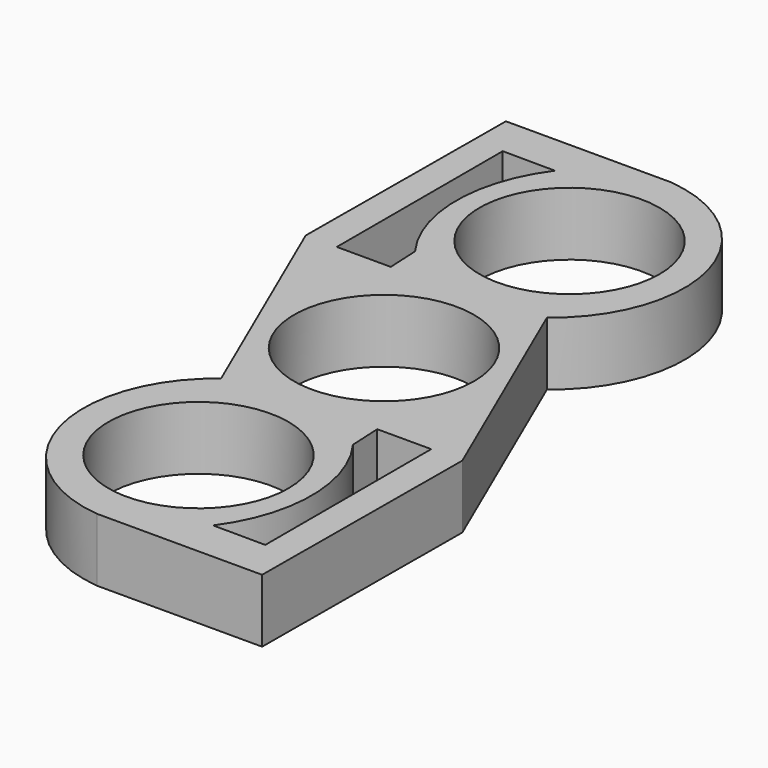
from build123d import *

# Parameters (mm, degrees)
F0_R     = 11.0109
F1_DEPTH = 7.747


with BuildPart() as f1:
    # F0 (on Top) → F1 (new body)
    with BuildSketch(Plane.XY):
        with BuildLine():
            Line((20.392826, -13.514568), (8.224028, 14.635976))
            ThreePointArc((8.224028, 14.635976), (14.048919, 32.063751), (0, 43.907929))
            Line((0, 43.907929), (-20.211583, 43.907929))
            Line((-20.211583, 43.907929), (-20.392826, 13.514568))
            Line((-20.392826, 13.514568), (-8.224028, -14.635976))
            ThreePointArc((-8.224028, -14.635976), (-14.048919, -32.063751), (0, -43.907929))
            Line((0, -43.907929), (20.211583, -43.907929))
            Line((20.211583, -43.907929), (20.392826, -13.514568))
        make_face()
        with Locations((0, -28.3718)):
            Circle(F0_R, mode=Mode.SUBTRACT)
        with BuildLine():
            Line((16.587436, -13.514568), (16.587436, -38.889877))
            Line((16.587436, -38.889877), (10.177375, -38.851653))
            ThreePointArc((10.177375, -38.851653), (13.6719, -28.159103), (10.177375, -17.466553))
            Line((10.177375, -17.466553), (9.983805, -13.514568))
            Line((9.983805, -13.514568), (16.587436, -13.514568))
        make_face(mode=Mode.SUBTRACT)
        with BuildLine():
            Line((-16.587436, 13.514568), (-16.587436, 38.889877))
            Line((-16.587436, 38.889877), (-10.177375, 38.851653))
            ThreePointArc((-10.177375, 38.851653), (-13.6719, 28.159103), (-10.177375, 17.466553))
            Line((-10.177375, 17.466553), (-9.983805, 13.514568))
            Line((-9.983805, 13.514568), (-16.587436, 13.514568))
        make_face(mode=Mode.SUBTRACT)
        Circle(F0_R, mode=Mode.SUBTRACT)
        with Locations((0, 28.3718)):
            Circle(F0_R, mode=Mode.SUBTRACT)
    extrude(amount=F1_DEPTH)


solid = f1.part
